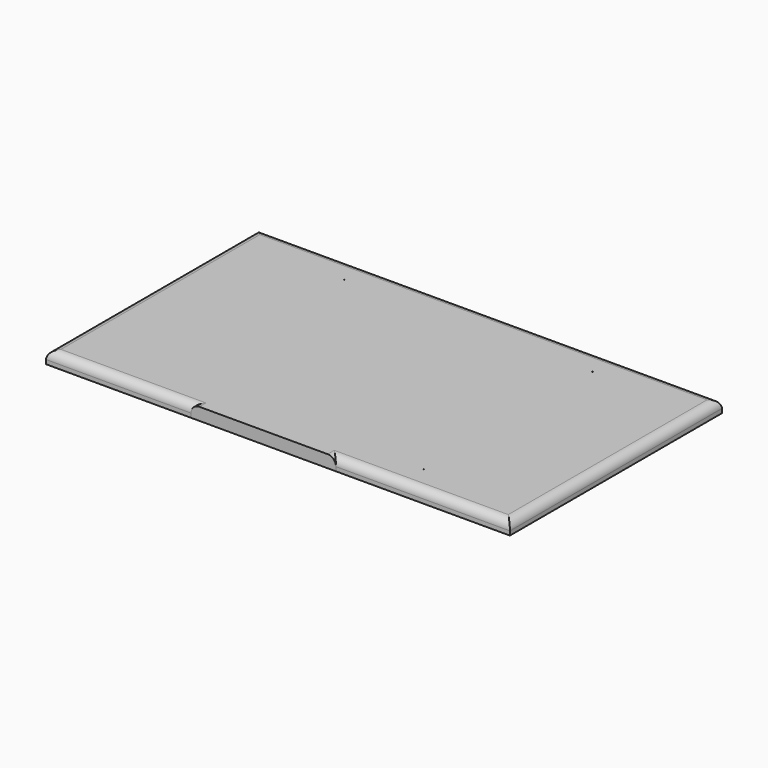
from build123d import *

# Parameters (mm, degrees)
F0_W           = 711.2
F0_H           = 406.4
F1_DEPTH       = 19.05
F2_W           = 222.25
F2_H           = 19.05
F3_DEPTH       = 0.00254
F4_R           = 12.7
F5_R           = 12.7
F7_D           = 1.190625
F7_CSINK_D     = 6.35
F7_CSINK_ANGLE = 90


with BuildPart() as f1:
    # F0 (on Top) → F1 (new body)
    with BuildSketch(Plane.XY):
        Rectangle(F0_W, F0_H)
    extrude(amount=F1_DEPTH)

    # F2 (on face) → F3 (join)
    with BuildSketch(Plane.XZ.offset(203.2)):
        with Locations((-22.225, 9.525)):
            Rectangle(F2_W, F2_H)
    extrude(amount=F3_DEPTH)

    # F4
    f4_edges = [f1.edges().sort_by_distance(p)[0] for p in [
        (-244.475, -203.2, 19.05),
        (-355.6, 0, 19.05),
        (222.25, -203.2, 19.05),
        (355.6, 0, 19.05),
        (0, 203.2, 19.05),
    ]]
    fillet(f4_edges, radius=F4_R)

    # F5
    f5_edges = [f1.edges().sort_by_distance(p)[0] for p in [
        (88.9, -203.20127, 19.05),
        (-133.35, -203.20127, 19.05),
    ]]
    fillet(f5_edges, radius=F5_R)

    # F7 (through all)
    with Locations(Plane(origin=(0, 0, 0), x_dir=(1, 0, 0), z_dir=(0, 0, -1))):
        with Locations((190.5, -161.925), (190.5, 161.925), (-190.5, -161.925), (-190.5, 161.925)):
            CounterSinkHole(F7_D / 2, F7_CSINK_D / 2, counter_sink_angle=F7_CSINK_ANGLE)


solid = f1.part
